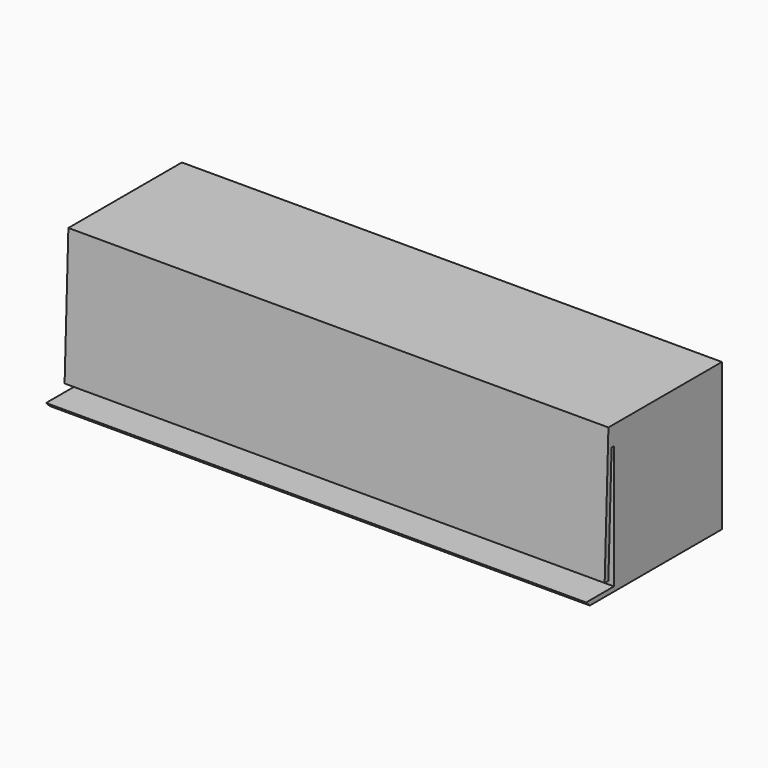
from build123d import *

# Parameters (mm, degrees)
F1_DEPTH = 140


with BuildPart() as f1:
    # F0 (on Right) → F1 (new body)
    with BuildSketch(Plane.YZ):
        Polygon((3, 0), (0, 0), (-6, 0), (-4.8, -1.2), (38, -1.2), (38, 0), align=None)
        Polygon((3, 32), (3, 0), (38, 0), (38, 37), (3, 37), align=None)
        Polygon((2.247623, 32), (3, 32), (3, 37), (2.422227, 37), align=None)
        Polygon((1.2, 2), (2.247623, 32), (2.422227, 37), (1.222227, 37), (0, 2), align=None)
    extrude(amount=F1_DEPTH)


solid = f1.part
